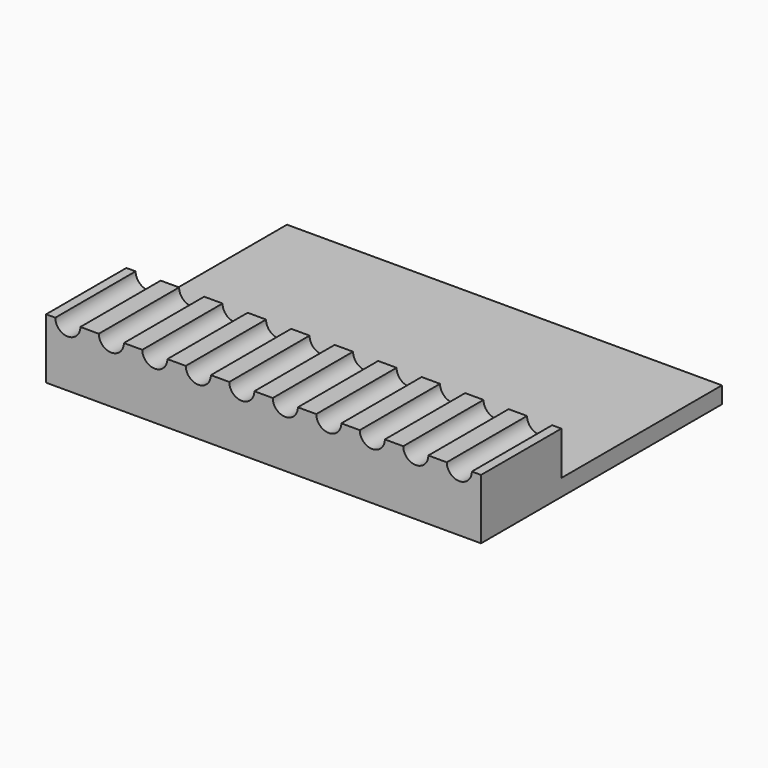
from build123d import *

# Parameters (mm, degrees)
BOX026_W          = 30
BOX026_H          = 20
BOX026_DEPTH      = 9.2
CYLINDER008_R     = 0.75
CYLINDER008_DEPTH = 7
ARRAY008_X_COUNT  = 10
ARRAY008_X_PITCH  = 2.6
ARRAY008_Y_COUNT  = 2
ARRAY008_Y_PITCH  = 1
BOX025_W          = 26
BOX025_H          = 12
BOX025_DEPTH      = 5.2
BOX024_W          = 26
BOX024_H          = 18
BOX024_DEPTH      = 7.2


with BuildPart() as obj1:
    # Box026 → Box026 (new body)
    with BuildSketch(Plane(origin=(-1, -1, 3.6), x_dir=(1, 0, 0), z_dir=(0, 0, 1))):
        with Locations((15, 10)):
            Rectangle(BOX026_W, BOX026_H)
    extrude(amount=BOX026_DEPTH)


with BuildPart() as array008:
    # Cylinder008 → Cylinder008 (new body)
    with BuildSketch(Plane(origin=(1.3, -1, 3.6), x_dir=(1, 0, 0), z_dir=(0, 1, 0))):
        Circle(CYLINDER008_R)
    extrude(amount=CYLINDER008_DEPTH)

    # Array008 X: Array008 ×10


with BuildPart() as array008_1:
    add(array008.part)
    with Locations(*[(i * ARRAY008_X_PITCH, 0, 0) for i in range(1, ARRAY008_X_COUNT)]):
        add(array008.part)

    # Array008 Y: Array008 ×2


with BuildPart() as array008_2:
    add(array008_1.part)
    with Locations(*[(0, i * ARRAY008_Y_PITCH, 0) for i in range(1, ARRAY008_Y_COUNT)]):
        add(array008_1.part)


with BuildPart() as cube_10_base011:
    # Box025 → Box025 (new body)
    with BuildSketch(Plane(origin=(0, 6, 1), x_dir=(1, 0, 0), z_dir=(0, 0, 1))):
        with Locations((13, 6)):
            Rectangle(BOX025_W, BOX025_H)
    extrude(amount=BOX025_DEPTH)


with BuildPart() as obj2:
    # Box024 → Box024 (new body)
    with BuildSketch(Plane.XY):
        with Locations((13, 9)):
            Rectangle(BOX024_W, BOX024_H)
    extrude(amount=BOX024_DEPTH)

    # Cut025: cut cube_10_base011
    add(cube_10_base011.part, mode=Mode.SUBTRACT)

    # Cut024: cut Array008
    add(array008_2.part, mode=Mode.SUBTRACT)

    # Cut027: cut obj1
    add(obj1.part, mode=Mode.SUBTRACT)


solid = obj2.part
